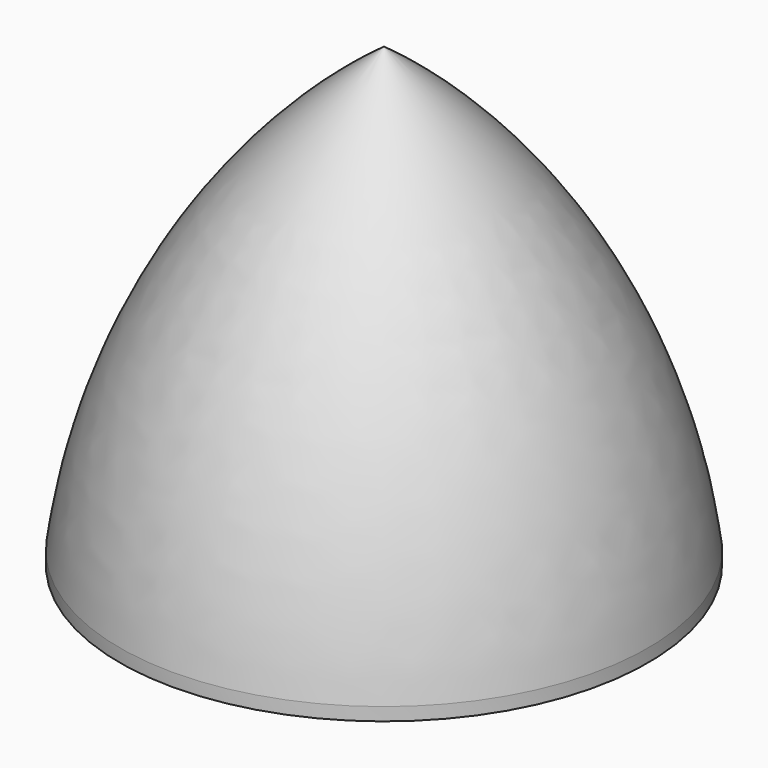
from build123d import *


with BuildPart() as f2:
    # F1 (on Right) → F2 (revolve)
    with BuildSketch(Plane.YZ):
        with BuildLine():
            Line((0, 6.8230149336), (0, 7.1768327616))
            ThreePointArc((0, 7.1768327616), (-2.7968918019, 4.1205632107), (-4.1506560519, 0.2051181946))
            Line((-4.1506560519, 0.2051181946), (-4.1506560519, 0))
            Line((-4.1506560519, 0), (-4.0024244227, 0))
            ThreePointArc((-4.0024244227, 0), (-2.7832236648, 3.8702404127), (0, 6.8230149336))
        make_face()
    revolve(axis=Axis((0, 0, 0), (0, 0, 1)))


solid = f2.part
